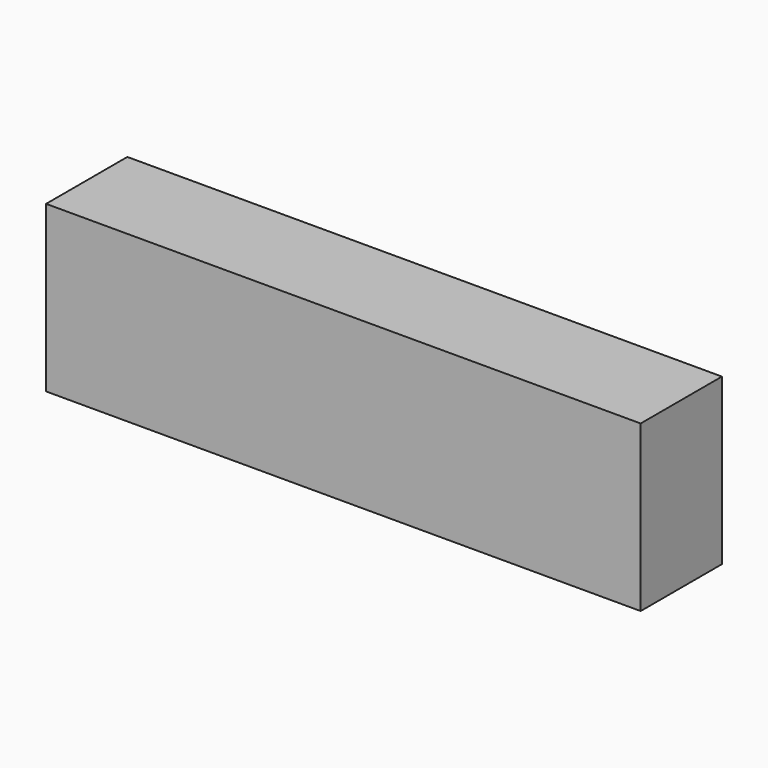
from build123d import *

# Parameters (mm, degrees)
BOX004_W     = 72
BOX004_H     = 12.3
BOX004_DEPTH = 20


with BuildPart() as part:
    # Box004 → Box004 (new body)
    with BuildSketch(Plane(origin=(35, 0, 0), x_dir=(1, 0, 0), z_dir=(0, 0, 1))):
        with Locations((36, 6.15)):
            Rectangle(BOX004_W, BOX004_H)
    extrude(amount=BOX004_DEPTH)


solid = part.part
